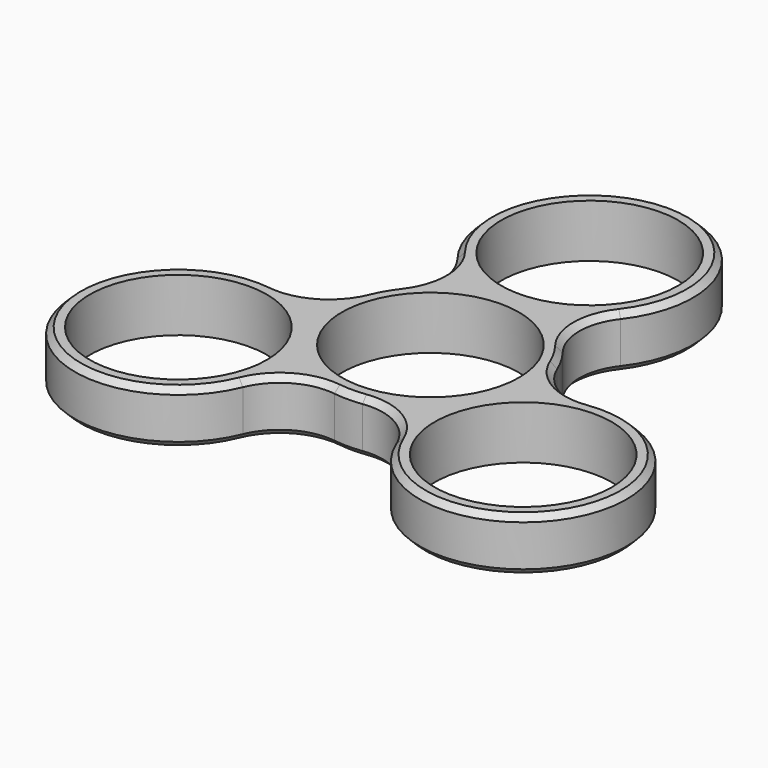
from build123d import *

# Parameters (mm, degrees)
F0_R      = 17.5
F1_DEPTH  = 9
F2_R      = 17.5
F3_DEPTH  = 9
F4_R      = 15
F6_DEPTH  = 25
F5_R      = 15
F7_DEPTH  = 25
F8_R      = 15
F9_DEPTH  = 25
F10_R     = 15
F11_DEPTH = 25
F12_R     = 10
F13_SIZE  = 1
F14_SIZE  = 1


with BuildPart() as f1:
    # F0 (on Top) → F1 (new body)
    with BuildSketch(Plane.XY):
        Circle(F0_R)
    extrude(amount=F1_DEPTH)

    # F2 (on Top) → F3 (join)
    with BuildSketch(Plane.XY):
        with Locations((0, 33.7313876416)):
            Circle(F2_R)
        with Locations((29.2122386025, -16.8656938208)):
            Circle(F2_R)
        with Locations((-29.2122386025, -16.8656938208)):
            Circle(F2_R)
    extrude(amount=F3_DEPTH)

    # F4 (on face) → F6 (cut)
    with BuildSketch(Plane(origin=(0, 0, 0), x_dir=(1, 0, 0), z_dir=(0, 0, -1))):
        with Locations((0, -33.7313876416)):
            Circle(F4_R)
    extrude(amount=-F6_DEPTH, mode=Mode.SUBTRACT)

    # F5 (on face) → F7 (cut)
    with BuildSketch(Plane(origin=(0, 0, 0), x_dir=(1, 0, 0), z_dir=(0, 0, -1))):
        Circle(F5_R)
    extrude(amount=-F7_DEPTH, mode=Mode.SUBTRACT)

    # F8 (on face) → F9 (cut)
    with BuildSketch(Plane(origin=(0, 0, 0), x_dir=(1, 0, 0), z_dir=(0, 0, -1))):
        with Locations((-29.2122386025, 16.8656938208)):
            Circle(F8_R)
    extrude(amount=-F9_DEPTH, mode=Mode.SUBTRACT)

    # F10 (on face) → F11 (cut)
    with BuildSketch(Plane(origin=(0, 0, 0), x_dir=(1, 0, 0), z_dir=(0, 0, -1))):
        with Locations((29.2122386025, 16.8656938208)):
            Circle(F10_R)
    extrude(amount=-F11_DEPTH, mode=Mode.SUBTRACT)

    # F12
    f12_edges = [f1.edges().sort_by_distance(p)[0] for p in [
        (16.940556, -4.389485, 4.5),
        (12.271683, -12.476209, 4.5),
        (-16.940556, -4.389485, 4.5),
        (-12.271683, -12.476209, 4.5),
        (4.668873, 16.865694, 4.5),
        (-4.668873, 16.865694, 4.5),
    ]]
    fillet(f12_edges, radius=F12_R)

    # F13
    f13_edges = [f1.edges().sort_by_distance(p)[0] for p in [
        (44.367683, -25.615694, 0),
    ]]
    chamfer(f13_edges, length=F13_SIZE)

    # F14
    f14_edges = [f1.edges().sort_by_distance(p)[0] for p in [
        (44.367683, -25.615694, 9),
    ]]
    chamfer(f14_edges, length=F14_SIZE)


solid = f1.part
